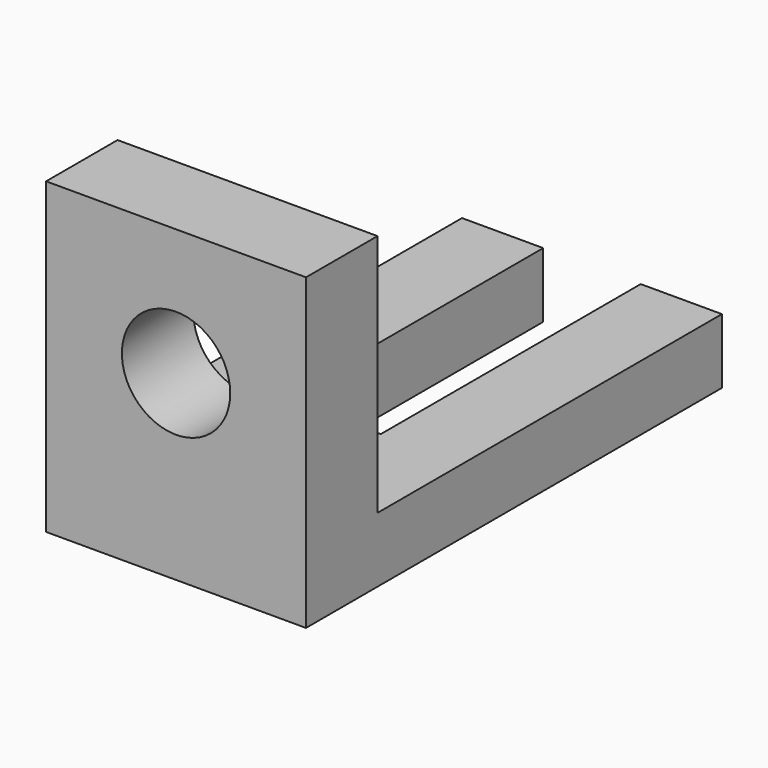
from build123d import *

# Parameters (mm, degrees)
F0_W     = 3
F0_H     = 12
F1_DEPTH = 4
F3_W     = 16
F3_H     = 5.5
F4_DEPTH = 15
F5_R     = 3.33375
F6_DEPTH = 32.001


with BuildPart() as f1:
    # F0 (on Top) → F1 (new body)
    with BuildSketch(Plane.XY):
        with Locations((1.5, 6)):
            Rectangle(F0_W, F0_H)
        Polygon((3, 12), (3, 0), (8, 0), (8, 32), (3, 32), align=None)
    extrude(amount=-F1_DEPTH)

    # F2: F1 across face


with BuildPart() as f1_1:
    add(f1.part)
    add(f1.part.mirror(Plane(origin=(0, 6, -2), x_dir=(0, -1, 0), z_dir=(-1, 0, 0))))

    # F3 (on face) → F4 (join)
    with BuildSketch(Plane.XY):
        with Locations((0, 2.75)):
            Rectangle(F3_W, F3_H)
    extrude(amount=F4_DEPTH)

    # F5 (on Front) → F6 (cut, through all)
    with BuildSketch(Plane.XZ):
        with Locations((0, 7.2)):
            Circle(F5_R)
    extrude(amount=-F6_DEPTH, mode=Mode.SUBTRACT)


solid = f1_1.part
